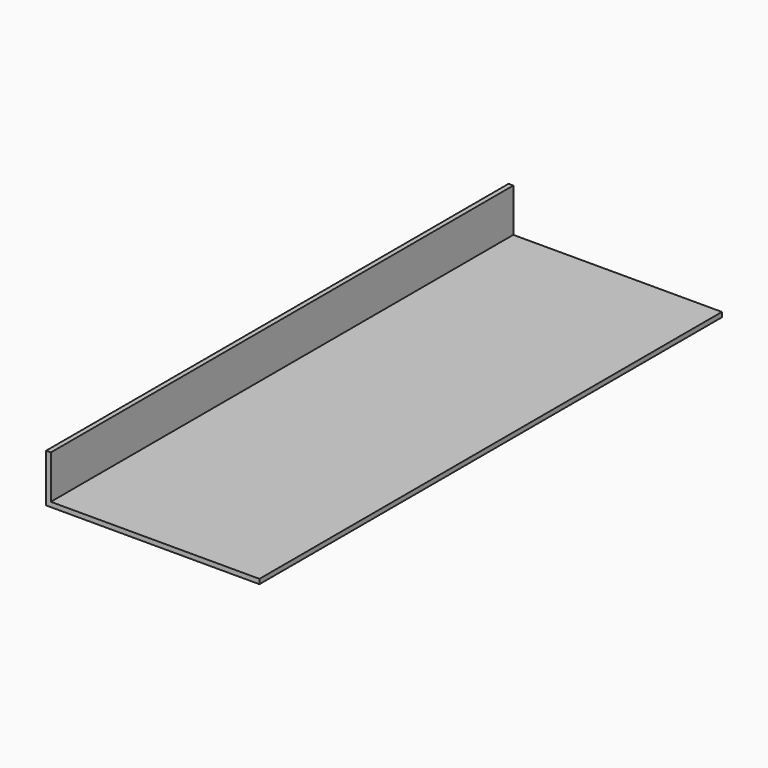
from build123d import *

# Parameters (mm, degrees)
F0_W     = 309.716136
F0_H     = 25.80601
F1_DEPTH = 114.3
F2_T     = -2.54


with BuildPart() as f1:
    # F0 (on Right) → F1 (new body)
    with BuildSketch(Plane.YZ):
        Rectangle(F0_W, F0_H)
    extrude(amount=F1_DEPTH)

    # F2
    f2_openings = [f1.faces().sort_by_distance(p)[0] for p in [
        (57.15, -154.858068, 0),
        (57.15, 0, 12.903005),
        (114.3, 0, 0),
        (57.15, 154.858068, 0),
    ]]
    offset(amount=F2_T, openings=f2_openings)


solid = f1.part
